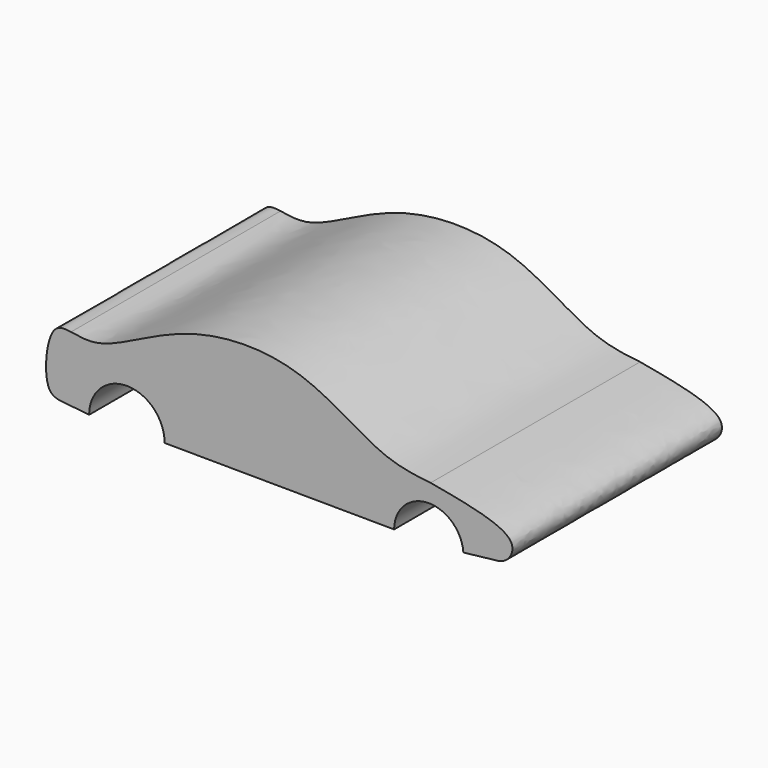
from build123d import *

# Parameters (mm, degrees)
F1_DEPTH = 635


with BuildPart() as f1:
    # F0 (on Front) → F1 (new body)
    with BuildSketch(Plane.XZ):
        with BuildLine():
            Line((-666.3242687066, 33.5142898837), (-109.8671773425, 29.8846059426))
            ThreePointArc((-109.8671773425, 29.8846059426), (-28.4581794598, 113.3825751746), (58.1019558071, 35.2373335748))
            add(Edge.make_bspline(
                [(58.1019558071, 35.2373335748), (81.7703584473, 37.9037522243), (123.6746095972, 42.6273825533), (166.7325085144, 46.837366182), (197.8847253213, 118.3284996062), (68.2138761533, 141.8768505883), (-21.3383547962, 158.1394076347)],
                knots=[0, 0, 0, 0, 0.2326318622, 0.4122732577, 0.5941777602, 1, 1, 1, 1], degree=3))
            add(Edge.make_bspline(
                [(-893.3513760567, 196.6323405504), (-870.4707774071, 192.7574079175), (-808.7536518393, 182.3053341961), (-618.042340301, 308.917344184), (-337.6845796437, 318.0954589249), (-149.2386660595, 172.1710074137), (-59.3166169752, 162.3059008194), (-21.3383547962, 158.1394076347)],
                knots=[0, 0, 0, 0, 0.1314146773, 0.3544722001, 0.6054547413, 0.8333651932, 1, 1, 1, 1], degree=3))
            add(Edge.make_bspline(
                [(-849.4143778639, 34.11141783), (-869.730284011, 36.4376236289), (-907.1606880079, 40.723468533), (-963.9023234807, 44.5970448449), (-950.1289322947, 204.196530828), (-908.577342176, 198.6608199799), (-893.3513760567, 196.6323405504)],
                knots=[0, 0, 0, 0, 0.2407534137, 0.443568575, 0.7961039277, 1, 1, 1, 1], degree=3))
            ThreePointArc((-849.4143778639, 34.11141783), (-757.5697839912, 125.6569592739), (-666.3242687066, 33.5142898837))
        make_face()
    extrude(amount=F1_DEPTH)


solid = f1.part
